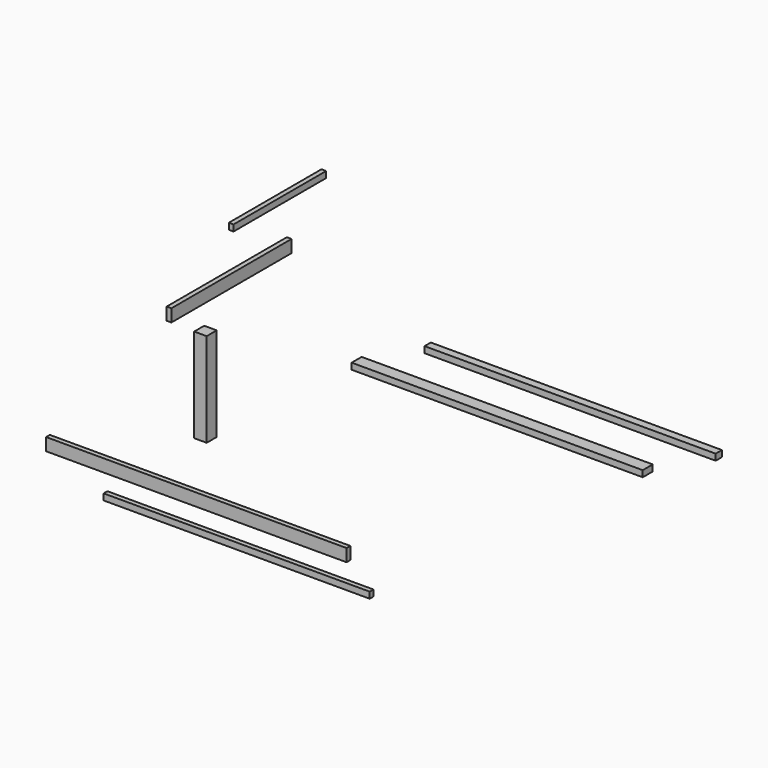
from build123d import *

# Parameters (mm, degrees)
F0_W      = 50.8
F0_H      = 50.8
F1_DEPTH  = 381
F2_W      = 1219.2
F2_H      = 50.8
F3_DEPTH  = 19.05
F4_W      = 609.6
F4_H      = 50.8
F5_DEPTH  = 19.05
F6_W      = 469.9
F6_H      = 25.4
F7_DEPTH  = 19.05
F8_W      = 1079.5
F8_H      = 25.4
F9_DEPTH  = 19.05
F10_W     = 1181.1
F10_H     = 50.8
F11_DEPTH = 25.4
F12_W     = 1181.1
F12_H     = 31.75
F13_DEPTH = 25.4


with BuildPart() as f1:
    # F0 (on Top) → F1 (new body)
    with BuildSketch(Plane.XY):
        with Locations((0, 27.17964)):
            Rectangle(F0_W, F0_H)
    extrude(amount=F1_DEPTH)


with BuildPart() as f3:
    # F2 (on Front) → F3 (new body)
    with BuildSketch(Plane.XZ):
        with Locations((0, -202.794402)):
            Rectangle(F2_W, F2_H)
    extrude(amount=F3_DEPTH)


with BuildPart() as f5:
    # F4 (on Right) → F5 (new body)
    with BuildSketch(Plane.YZ):
        with Locations((135.38126, 522.627532)):
            Rectangle(F4_W, F4_H)
    extrude(amount=F5_DEPTH)


with BuildPart() as f7:
    # F6 (on Right) → F7 (new body)
    with BuildSketch(Plane.YZ):
        with Locations((380.770034, 706.698775)):
            Rectangle(F6_W, F6_H)
        with Locations((380.770034, 706.698775)):
            Rectangle(F6_W, F6_H)
    extrude(amount=F7_DEPTH)


with BuildPart() as f9:
    # F8 (on Front) → F9 (new body)
    with BuildSketch(Plane.XZ):
        with Locations((163.809027, -315.317035)):
            Rectangle(F8_W, F8_H)
    extrude(amount=F9_DEPTH)


with BuildPart() as f11:
    # F10 (on Top) → F11 (new body)
    with BuildSketch(Plane.XY):
        with Locations((661.392548, 705.495894)):
            Rectangle(F10_W, F10_H)
    extrude(amount=F11_DEPTH)


with BuildPart() as f13:
    # F12 (on Top) → F13 (new body)
    with BuildSketch(Plane.XY):
        with Locations((770.958911, 928.885698)):
            Rectangle(F12_W, F12_H)
    extrude(amount=F13_DEPTH)


solid = Compound([f1.part, f3.part, f5.part, f7.part, f9.part, f11.part, f13.part])
